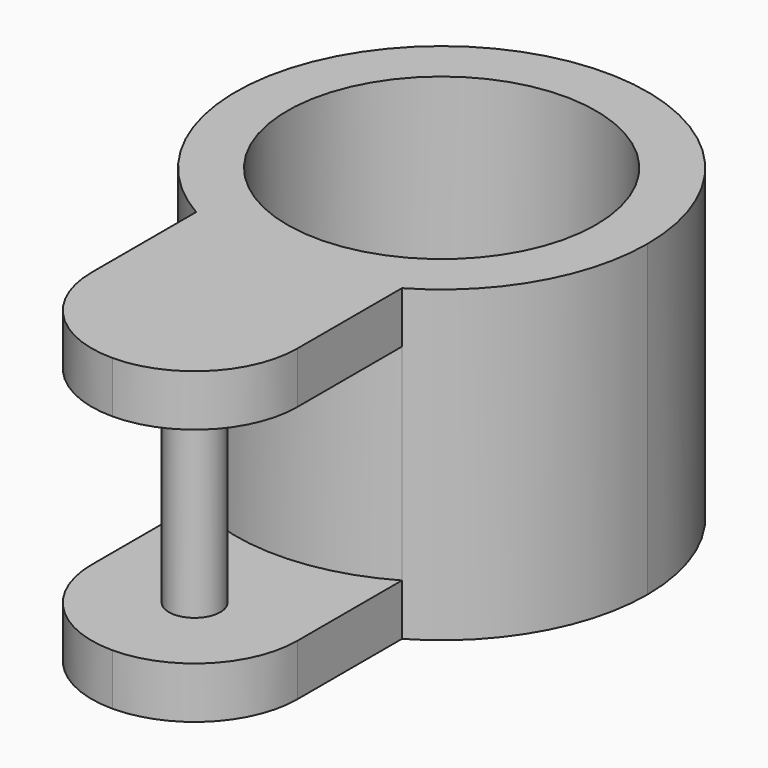
from build123d import *

# Parameters (mm, degrees)
F0_R     = 19.05
F1_DEPTH = 38.1
F2_DEPTH = 6.35
F4_R     = 3.175
F5_DEPTH = 6.35
F6_DEPTH = 38.1


with BuildPart() as f1:
    # F0 (on Top) → F1 (new body)
    with BuildSketch(Plane.XY):
        with BuildLine():
            ThreePointArc((12.7, -21.997045), (21.997045, -12.7), (25.4, 0))
            ThreePointArc((25.4, 0), (-12.7, 21.997045), (-12.7, -21.997045))
            ThreePointArc((-12.7, -21.997045), (0, -25.4), (12.7, -21.997045))
        make_face()
        Circle(F0_R, mode=Mode.SUBTRACT)
    extrude(amount=F1_DEPTH)

    # F0 (on Top) → F2 (join)
    with BuildSketch(Plane.XY):
        with BuildLine():
            ThreePointArc((12.7, -21.997045), (21.997045, -12.7), (25.4, 0))
            ThreePointArc((25.4, 0), (-12.7, 21.997045), (-12.7, -21.997045))
            ThreePointArc((-12.7, -21.997045), (0, -25.4), (12.7, -21.997045))
        make_face()
        Circle(F0_R, mode=Mode.SUBTRACT)
        with BuildLine():
            ThreePointArc((12.7, -21.997045), (0, -25.4), (-12.7, -21.997045))
            Line((-12.7, -21.997045), (-12.7, -38.1))
            ThreePointArc((-12.7, -38.1), (-8.980256, -47.080256), (0, -50.8))
            ThreePointArc((0, -50.8), (8.980256, -47.080256), (12.7, -38.1))
            Line((12.7, -38.1), (12.7, -21.997045))
        make_face()
    extrude(amount=F2_DEPTH)

    # F4 (on offset) → F5 (join)
    with BuildSketch(Plane.XY.offset(38.1)):
        with BuildLine():
            ThreePointArc((12.7, -21.997045), (0, -25.4), (-12.7, -21.997045))
            Line((-12.7, -21.997045), (-12.7, -38.1))
            ThreePointArc((-12.7, -38.1), (-8.980256, -47.080256), (0, -50.8))
            ThreePointArc((0, -50.8), (8.980256, -47.080256), (12.7, -38.1))
            Line((12.7, -38.1), (12.7, -21.997045))
        make_face()
        with Locations((0, -38.1)):
            Circle(F4_R, mode=Mode.SUBTRACT)
        with Locations((0, -38.1)):
            Circle(F4_R)
    extrude(amount=-F5_DEPTH)

    # F4 (on offset) → F6 (join)
    with BuildSketch(Plane.XY.offset(38.1)):
        with Locations((0, -38.1)):
            Circle(F4_R)
    extrude(amount=-F6_DEPTH)


solid = f1.part
